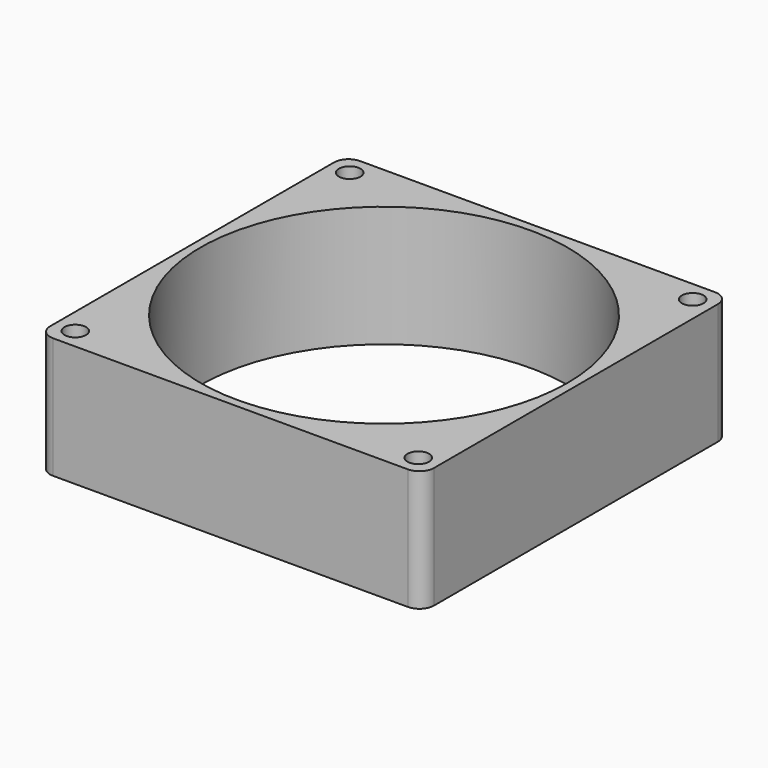
from build123d import *

# Parameters (mm, degrees)
F0_R     = 2.25
F0_R_2   = 38.25
F1_DEPTH = 25.25
F2_R     = 16.5
F3_DEPTH = 25.25


with BuildPart() as f1:
    # F0 (on Top) → F1 (new body)
    with BuildSketch(Plane.XY):
        with BuildLine():
            Line((-37, -40), (37, -40))
            ThreePointArc((37, -40), (39.12132, -39.12132), (40, -37))
            Line((40, -37), (40, 37))
            ThreePointArc((40, 37), (39.12132, 39.12132), (37, 40))
            Line((37, 40), (-37, 40))
            ThreePointArc((-37, 40), (-39.12132, 39.12132), (-40, 37))
            Line((-40, 37), (-40, -37))
            ThreePointArc((-40, -37), (-39.12132, -39.12132), (-37, -40))
        make_face()
        with Locations((-35.75, -35.75)):
            Circle(F0_R, mode=Mode.SUBTRACT)
        with Locations((35.75, -35.75)):
            Circle(F0_R, mode=Mode.SUBTRACT)
        with Locations((-35.75, 35.75)):
            Circle(F0_R, mode=Mode.SUBTRACT)
        Circle(F0_R_2, mode=Mode.SUBTRACT)
        with Locations((35.75, 35.75)):
            Circle(F0_R, mode=Mode.SUBTRACT)
    extrude(amount=F1_DEPTH)


with BuildPart() as f3:
    # F2 (on Top) → F3 (new body)
    with BuildSketch(Plane.XY):
        Circle(F2_R)
        Circle(F2_R)
    extrude(amount=F3_DEPTH)


solid = f1.part
